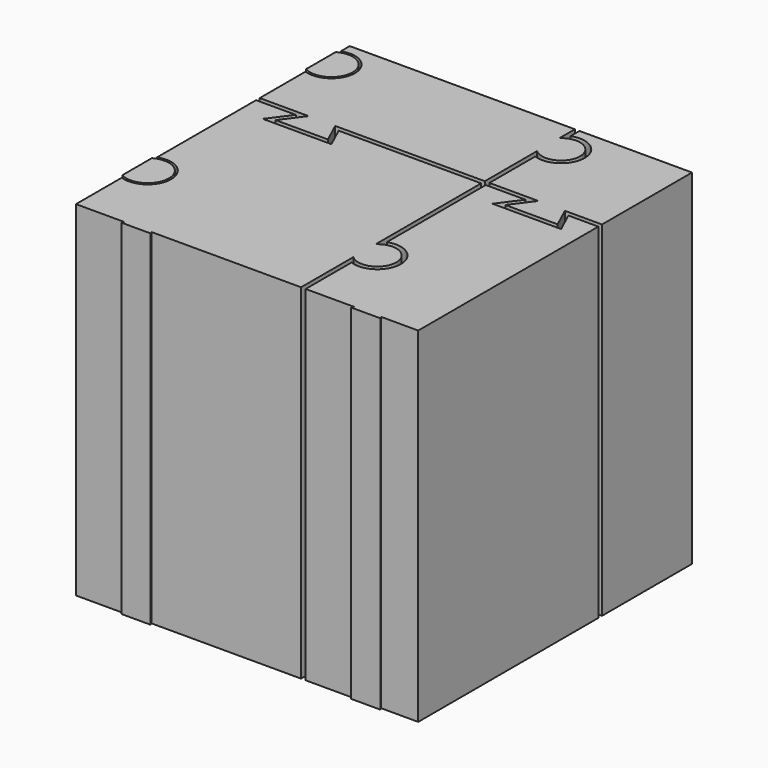
from build123d import *

# Parameters (mm, degrees)
F1_W     = 15
F1_H     = 15
F2_DEPTH = 15
F3_DEPTH = 15.001


with BuildPart() as f2:
    # F1 (on Top) → F2 (new body)
    with BuildSketch(Plane.XY):
        with Locations((7.5, 7.5)):
            Rectangle(F1_W, F1_H)
    extrude(amount=F2_DEPTH)

    # F0 (on Top) → F3 (cut, through all)
    with BuildSketch(Plane.XY):
        with BuildLine():
            Line((10, 2.749568), (10, 0))
            Line((10, 0), (12.027849, 0))
            Line((12.027849, 0), (11.336812, -0.931511))
            Line((11.336812, -0.931511), (13.969333, -0.931511))
            Line((13.969333, -0.931511), (13.541549, 0))
            Line((13.541549, 0), (20, 0))
            Line((20, 0), (20, 2.749568))
            ThreePointArc((20, 2.749568), (21.383812, 3.55276), (20, 4.355952))
            Line((20, 4.355952), (20, 10))
            Line((20, 10), (13.541549, 10))
            Line((13.541549, 10), (13.969333, 9.068489))
            Line((13.969333, 9.068489), (11.336812, 9.068489))
            Line((11.336812, 9.068489), (12.027849, 10))
            Line((12.027849, 10), (10, 10))
            Line((10, 10), (10, 4.355952))
            ThreePointArc((10, 4.355952), (11.383812, 3.55276), (10, 2.749568))
        make_face()
        with BuildLine():
            Line((11.829152, 9.9), (11.138115, 8.968489))
            Line((11.138115, 8.968489), (14.125297, 8.968489))
            Line((14.125297, 8.968489), (13.697513, 9.9))
            Line((13.697513, 9.9), (19.9, 9.9))
            Line((19.9, 9.9), (19.9, 4.159682))
            ThreePointArc((19.9, 4.159682), (21.283812, 3.55276), (19.9, 2.945838))
            Line((19.9, 2.945838), (19.9, 0.1))
            Line((19.9, 0.1), (13.385584, 0.1))
            Line((13.385584, 0.1), (13.813368, -0.831511))
            Line((13.813368, -0.831511), (11.535509, -0.831511))
            Line((11.535509, -0.831511), (12.226545, 0.1))
            Line((12.226545, 0.1), (10.1, 0.1))
            Line((10.1, 0.1), (10.1, 2.592615))
            ThreePointArc((10.1, 2.592615), (11.483812, 3.55276), (10.1, 4.512906))
            Line((10.1, 4.512906), (10.1, 9.9))
            Line((10.1, 9.9), (11.829152, 9.9))
        make_face(mode=Mode.SUBTRACT)
        with BuildLine():
            Line((0, 12.749568), (0, 10))
            Line((0, 10), (2.027849, 10))
            Line((2.027849, 10), (1.336812, 9.068489))
            Line((1.336812, 9.068489), (3.969333, 9.068489))
            Line((3.969333, 9.068489), (3.541549, 10))
            Line((3.541549, 10), (10, 10))
            Line((10, 10), (10, 12.749568))
            ThreePointArc((10, 12.749568), (11.383812, 13.55276), (10, 14.355952))
            Line((10, 14.355952), (10, 20))
            Line((10, 20), (3.541549, 20))
            Line((3.541549, 20), (3.969333, 19.068489))
            Line((3.969333, 19.068489), (1.336812, 19.068489))
            Line((1.336812, 19.068489), (2.027849, 20))
            Line((2.027849, 20), (0, 20))
            Line((0, 20), (0, 14.355952))
            ThreePointArc((0, 14.355952), (1.383812, 13.55276), (0, 12.749568))
        make_face()
        with BuildLine():
            Line((1.829152, 19.9), (1.138115, 18.968489))
            Line((1.138115, 18.968489), (4.125297, 18.968489))
            Line((4.125297, 18.968489), (3.697513, 19.9))
            Line((3.697513, 19.9), (9.9, 19.9))
            Line((9.9, 19.9), (9.9, 14.159682))
            ThreePointArc((9.9, 14.159682), (11.283812, 13.55276), (9.9, 12.945838))
            Line((9.9, 12.945838), (9.9, 10.1))
            Line((9.9, 10.1), (3.385584, 10.1))
            Line((3.385584, 10.1), (3.813368, 9.168489))
            Line((3.813368, 9.168489), (1.535509, 9.168489))
            Line((1.535509, 9.168489), (2.226545, 10.1))
            Line((2.226545, 10.1), (0.1, 10.1))
            Line((0.1, 10.1), (0.1, 12.592615))
            ThreePointArc((0.1, 12.592615), (1.483812, 13.55276), (0.1, 14.512906))
            Line((0.1, 14.512906), (0.1, 19.9))
            Line((0.1, 19.9), (1.829152, 19.9))
        make_face(mode=Mode.SUBTRACT)
        with BuildLine():
            Line((10, 12.749568), (10, 10))
            Line((10, 10), (12.027849, 10))
            Line((12.027849, 10), (11.336812, 9.068489))
            Line((11.336812, 9.068489), (13.969333, 9.068489))
            Line((13.969333, 9.068489), (13.541549, 10))
            Line((13.541549, 10), (20, 10))
            Line((20, 10), (20, 12.749568))
            ThreePointArc((20, 12.749568), (21.383812, 13.55276), (20, 14.355952))
            Line((20, 14.355952), (20, 20))
            Line((20, 20), (13.541549, 20))
            Line((13.541549, 20), (13.969333, 19.068489))
            Line((13.969333, 19.068489), (11.336812, 19.068489))
            Line((11.336812, 19.068489), (12.027849, 20))
            Line((12.027849, 20), (10, 20))
            Line((10, 20), (10, 14.355952))
            ThreePointArc((10, 14.355952), (11.383812, 13.55276), (10, 12.749568))
        make_face()
        with BuildLine():
            Line((11.829152, 19.9), (11.138115, 18.968489))
            Line((11.138115, 18.968489), (14.125297, 18.968489))
            Line((14.125297, 18.968489), (13.697513, 19.9))
            Line((13.697513, 19.9), (19.9, 19.9))
            Line((19.9, 19.9), (19.9, 14.159682))
            ThreePointArc((19.9, 14.159682), (21.283812, 13.55276), (19.9, 12.945838))
            Line((19.9, 12.945838), (19.9, 10.1))
            Line((19.9, 10.1), (13.385584, 10.1))
            Line((13.385584, 10.1), (13.813368, 9.168489))
            Line((13.813368, 9.168489), (11.535509, 9.168489))
            Line((11.535509, 9.168489), (12.226545, 10.1))
            Line((12.226545, 10.1), (10.1, 10.1))
            Line((10.1, 10.1), (10.1, 12.592615))
            ThreePointArc((10.1, 12.592615), (11.483812, 13.55276), (10.1, 14.512906))
            Line((10.1, 14.512906), (10.1, 19.9))
            Line((10.1, 19.9), (11.829152, 19.9))
        make_face(mode=Mode.SUBTRACT)
        with BuildLine():
            Line((0, 2.749568), (0, 0))
            Line((0, 0), (2.027849, 0))
            Line((2.027849, 0), (1.336812, -0.931511))
            Line((1.336812, -0.931511), (3.969333, -0.931511))
            Line((3.969333, -0.931511), (3.541549, 0))
            Line((3.541549, 0), (10, 0))
            Line((10, 0), (10, 2.749568))
            ThreePointArc((10, 2.749568), (11.383812, 3.55276), (10, 4.355952))
            Line((10, 4.355952), (10, 10))
            Line((10, 10), (3.541549, 10))
            Line((3.541549, 10), (3.969333, 9.068489))
            Line((3.969333, 9.068489), (1.336812, 9.068489))
            Line((1.336812, 9.068489), (2.027849, 10))
            Line((2.027849, 10), (0, 10))
            Line((0, 10), (0, 4.355952))
            ThreePointArc((0, 4.355952), (1.383812, 3.55276), (0, 2.749568))
        make_face()
        with BuildLine():
            Line((0.1, 0.1), (0.1, 2.592615))
            ThreePointArc((0.1, 2.592615), (1.483812, 3.55276), (0.1, 4.512906))
            Line((0.1, 4.512906), (0.1, 9.9))
            Line((0.1, 9.9), (1.829152, 9.9))
            Line((1.829152, 9.9), (1.138115, 8.968489))
            Line((1.138115, 8.968489), (4.125297, 8.968489))
            Line((4.125297, 8.968489), (3.697513, 9.9))
            Line((3.697513, 9.9), (9.9, 9.9))
            Line((9.9, 9.9), (9.9, 4.159682))
            ThreePointArc((9.9, 4.159682), (11.283812, 3.55276), (9.9, 2.945838))
            Line((9.9, 2.945838), (9.9, 0.1))
            Line((9.9, 0.1), (3.385584, 0.1))
            Line((3.385584, 0.1), (3.813368, -0.831511))
            Line((3.813368, -0.831511), (1.535509, -0.831511))
            Line((1.535509, -0.831511), (2.226545, 0.1))
            Line((2.226545, 0.1), (0.1, 0.1))
        make_face(mode=Mode.SUBTRACT)
    extrude(amount=F3_DEPTH, mode=Mode.SUBTRACT)


solid = f2.part
